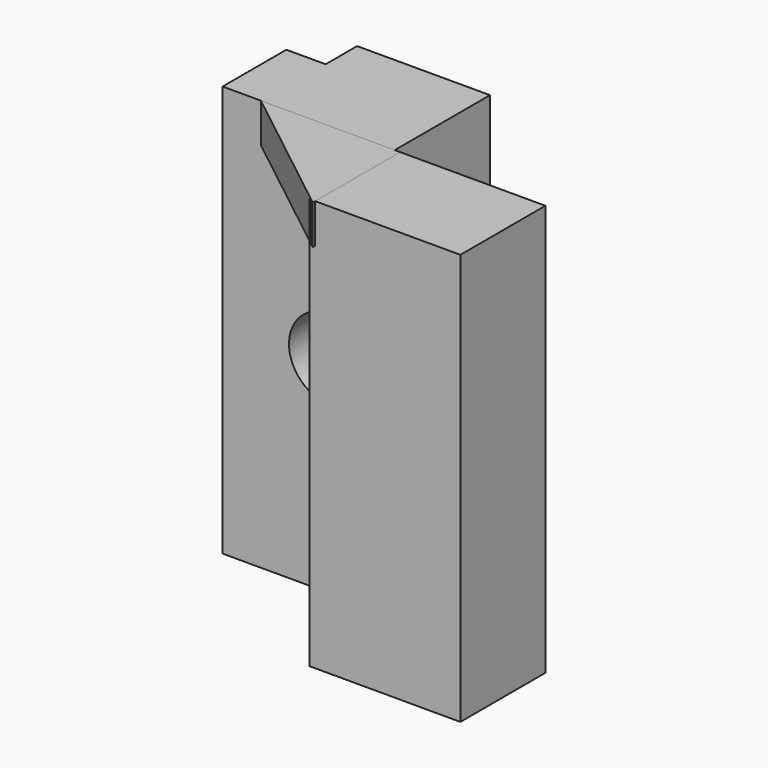
from build123d import *

# Parameters (mm, degrees)
F0_W     = 41.148
F0_H     = 98.298
F1_DEPTH = 19.05
F2_W     = 31.75
F2_H     = 98.298
F3_DEPTH = 9.398
F4_R     = 9.525
F5_DEPTH = 25.4
F7_DEPTH = 25.4
F9_DEPTH = 9.398


with BuildPart() as f1:
    # F0 (on Front) → F1 (new body)
    with BuildSketch(Plane.XZ):
        with Locations((20.574, -49.149)):
            Rectangle(F0_W, F0_H)
    extrude(amount=-F1_DEPTH)

    # F2 (on face) → F3 (join)
    with BuildSketch(Plane(origin=(0, 19.05, 0), x_dir=(-1, 0, 0), z_dir=(0, 1, 0))):
        with Locations((-25.273, -49.149)):
            Rectangle(F2_W, F2_H)
    extrude(amount=F3_DEPTH)

    # F4 (on face) → F5 (cut)
    with BuildSketch(Plane.XZ):
        with Locations((25.4, -49.022)):
            Circle(F4_R)
    extrude(amount=-F5_DEPTH, mode=Mode.SUBTRACT)


with BuildPart() as f7:
    # F6 (on face) → F7 (new body)
    with BuildSketch(Plane.XZ):
        Polygon((77.162116766, 0), (41.148, 0), (41.148, -9.398), (41.148, -88.9), (41.148, -98.298), (77.162116766, -98.298), align=None)
    extrude(amount=F7_DEPTH)


with BuildPart() as f9:
    # F8 (on Top) → F9 (new body)
    with BuildSketch(Plane.XY):
        Polygon((9.1537171975, 0), (42.4358174205, -26.1096917093), (42.4358174205, 0), align=None)
    extrude(amount=-F9_DEPTH)


solid = Compound([f1.part, f7.part, f9.part])
